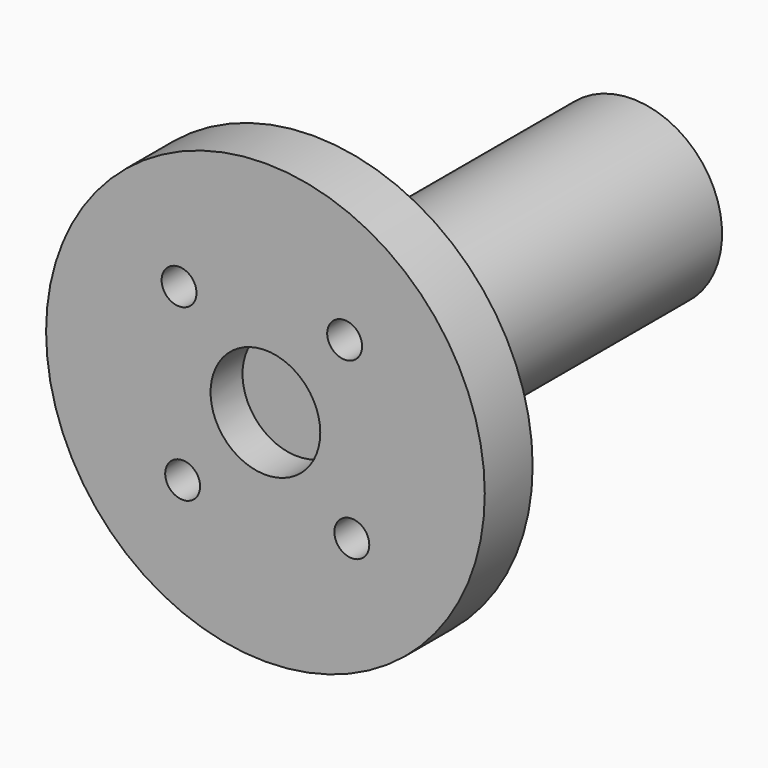
from build123d import *

# Parameters (mm, degrees)
F0_R     = 22
F1_DEPTH = 6
F2_R     = 1.75
F3_DEPTH = 6.001
F4_R     = 5.5
F5_DEPTH = 4
F6_R     = 9
F7_DEPTH = 40
F8_R     = 5
F9_DEPTH = 35


with BuildPart() as f1:
    # F0 (on Front) → F1 (new body)
    with BuildSketch(Plane.XZ):
        Circle(F0_R)
    extrude(amount=F1_DEPTH)

    # F2 (on face) → F3 (cut, through all)
    with BuildSketch(Plane.XZ.offset(6)):
        with Locations((-8.301622, -8.665049)):
            Circle(F2_R)
        with Locations((8.665049, -8.301622)):
            Circle(F2_R)
        with Locations((-8.665049, 8.301622)):
            Circle(F2_R)
        with Locations((7.944154, 8.99391)):
            Circle(F2_R)
    extrude(amount=-F3_DEPTH, mode=Mode.SUBTRACT)

    # F4 (on face) → F5 (cut)
    with BuildSketch(Plane.XZ.offset(6)):
        Circle(F4_R)
    extrude(amount=-F5_DEPTH, mode=Mode.SUBTRACT)

    # F6 (on face) → F7 (join)
    with BuildSketch(Plane(origin=(0, 0, 0), x_dir=(-1, 0, 0), z_dir=(0, 1, 0))):
        Circle(F6_R)
    extrude(amount=F7_DEPTH)

    # F8 (on face) → F9 (cut)
    with BuildSketch(Plane(origin=(0, 40, 0), x_dir=(-1, 0, 0), z_dir=(0, 1, 0))):
        Circle(F8_R)
    extrude(amount=-F9_DEPTH, mode=Mode.SUBTRACT)


solid = f1.part
